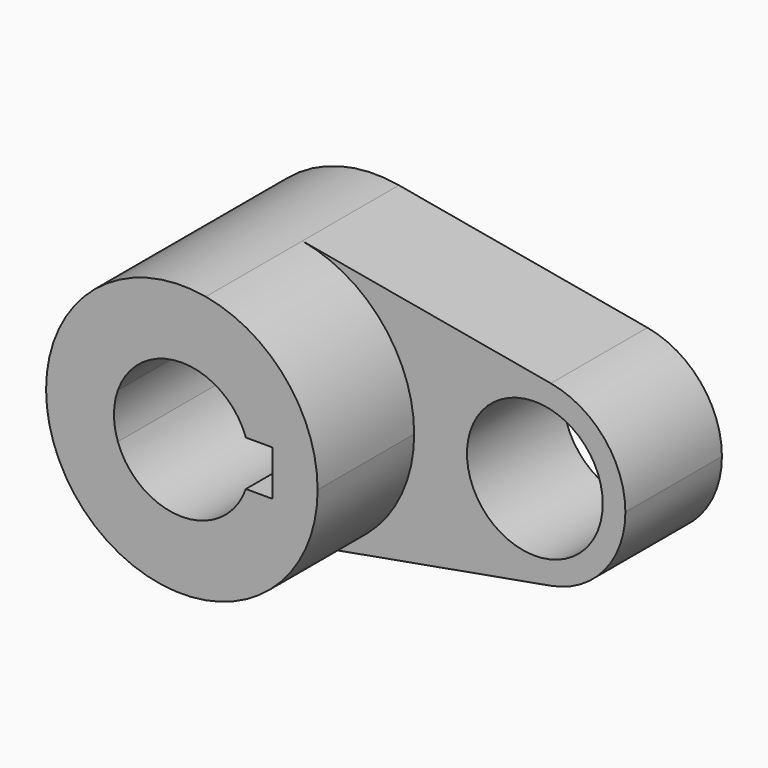
from build123d import *

# Parameters (mm, degrees)
F0_R     = 14.2875
F1_DEPTH = 25.4
F2_DEPTH = 50.8


with BuildPart() as f1:
    # F0 (on Front) → F1 (new body)
    with BuildSketch(Plane.XZ):
        with BuildLine():
            ThreePointArc((5.042647, -28.126541), (21.916025, -18.336262), (28.575, 0))
            ThreePointArc((28.575, 0), (21.916025, 18.336262), (5.042647, 28.126541))
            ThreePointArc((5.042647, 28.126541), (-28.575, 0), (5.042647, -28.126541))
        make_face()
        with BuildLine():
            ThreePointArc((-13.470384, 4.7625), (0, 14.2875), (13.470384, 4.7625))
            Line((13.470384, 4.7625), (19.05, 4.7625))
            Line((19.05, 4.7625), (19.05, -4.7625))
            Line((19.05, -4.7625), (13.470384, -4.7625))
            ThreePointArc((13.470384, -4.7625), (0, -14.2875), (-13.470384, -4.7625))
            Line((-13.470384, -4.7625), (-19.05, -4.7625))
            Line((-19.05, -4.7625), (-19.05, 4.7625))
            Line((-19.05, 4.7625), (-13.470384, 4.7625))
        make_face(mode=Mode.SUBTRACT)
        with BuildLine():
            ThreePointArc((5.042647, 28.126541), (21.916025, 18.336262), (28.575, 0))
            ThreePointArc((28.575, 0), (21.916025, -18.336262), (5.042647, -28.126541))
            Line((5.042647, -28.126541), (57.336765, -18.751028))
            ThreePointArc((57.336765, -18.751028), (34.925, 0), (57.336765, 18.751028))
            Line((57.336765, 18.751028), (5.042647, 28.126541))
        make_face()
        with BuildLine():
            ThreePointArc((73.025, 0), (68.585683, 12.224174), (57.336765, 18.751028))
            ThreePointArc((57.336765, 18.751028), (34.925, 0), (57.336765, -18.751028))
            ThreePointArc((57.336765, -18.751028), (68.585683, -12.224174), (73.025, 0))
        make_face()
        with Locations((53.975, 0)):
            Circle(F0_R, mode=Mode.SUBTRACT)
        with BuildLine():
            ThreePointArc((-13.470384, -4.7625), (-14.2875, 0), (-13.470384, 4.7625))
            Line((-13.470384, 4.7625), (-19.05, 4.7625))
            Line((-19.05, 4.7625), (-19.05, -4.7625))
            Line((-19.05, -4.7625), (-13.470384, -4.7625))
        make_face()
    extrude(amount=F1_DEPTH)

    # F0 (on Front) → F2 (join)
    with BuildSketch(Plane.XZ):
        with BuildLine():
            ThreePointArc((5.042647, -28.126541), (21.916025, -18.336262), (28.575, 0))
            ThreePointArc((28.575, 0), (21.916025, 18.336262), (5.042647, 28.126541))
            ThreePointArc((5.042647, 28.126541), (-28.575, 0), (5.042647, -28.126541))
        make_face()
        with BuildLine():
            ThreePointArc((-13.470384, 4.7625), (0, 14.2875), (13.470384, 4.7625))
            Line((13.470384, 4.7625), (19.05, 4.7625))
            Line((19.05, 4.7625), (19.05, -4.7625))
            Line((19.05, -4.7625), (13.470384, -4.7625))
            ThreePointArc((13.470384, -4.7625), (0, -14.2875), (-13.470384, -4.7625))
            Line((-13.470384, -4.7625), (-19.05, -4.7625))
            Line((-19.05, -4.7625), (-19.05, 4.7625))
            Line((-19.05, 4.7625), (-13.470384, 4.7625))
        make_face(mode=Mode.SUBTRACT)
        with BuildLine():
            ThreePointArc((-13.470384, -4.7625), (-14.2875, 0), (-13.470384, 4.7625))
            Line((-13.470384, 4.7625), (-19.05, 4.7625))
            Line((-19.05, 4.7625), (-19.05, -4.7625))
            Line((-19.05, -4.7625), (-13.470384, -4.7625))
        make_face()
    extrude(amount=F2_DEPTH)


solid = f1.part
